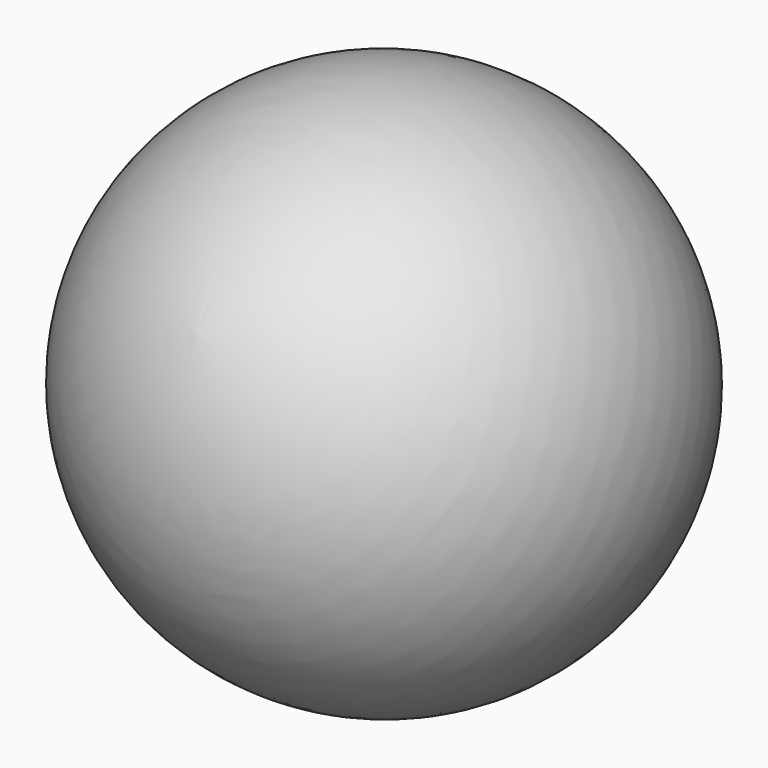
from build123d import *


with BuildPart() as f1:
    # F0 (on Right) → F1 (revolve)
    with BuildSketch(Plane.YZ):
        with BuildLine():
            Line((-21.2117994989, 13.9985487796), (22.3716596903, -12.0585508506))
            ThreePointArc((22.3716596903, -12.0585508506), (13.0414504255, 21.813307331), (-21.2117994989, 13.9985487796))
        make_face()
    revolve(axis=Axis((0, 0.5799300957, 0.9699989645), (0, 0.8582996615, -0.5131488002)))


solid = f1.part
